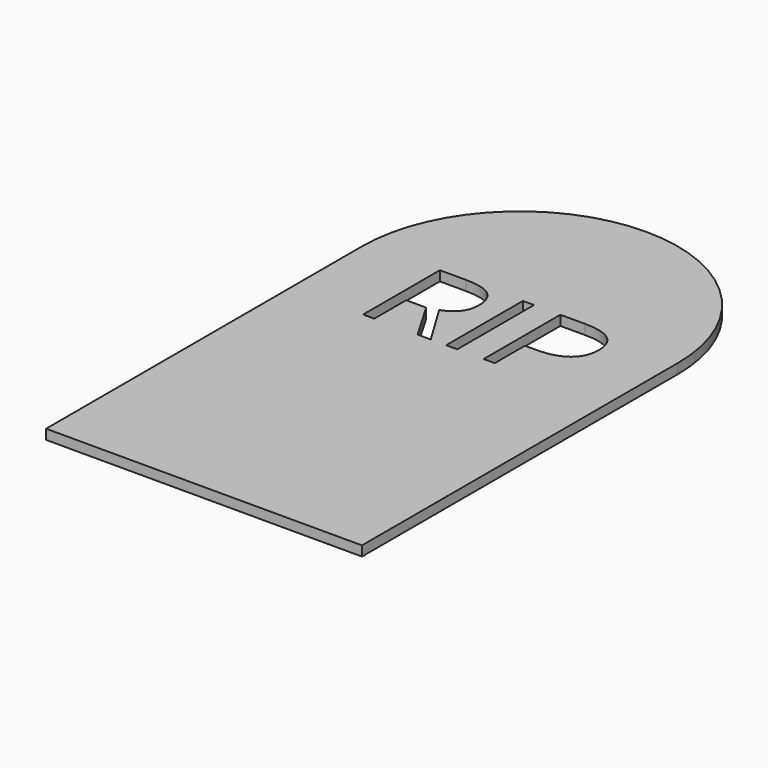
from build123d import *

# Parameters (mm, degrees)
F1_DEPTH = 3.175


with BuildPart() as f1:
    # F0 (on Top) → F1 (new body)
    with BuildSketch(Plane.XY):
        with BuildLine():
            Line((-43.6475083196, 57.6062907483), (-43.6475083196, -69.3937092517))
            Line((-43.6475083196, -69.3937092517), (57.9524916804, -69.3937092517))
            Line((57.9524916804, -69.3937092517), (57.9524916804, 57.6062907483))
            Line((57.9524916804, 57.6062907483), (34.9589943423, 57.6062907483))
            add(Edge.make_bspline(
                [(34.9589943423, 57.6062907483), (38.056212694, 55.3623037103), (38.056212694, 50.7103741337)],
                knots=[0.4823776889, 0.4823776889, 0.4823776889, 1, 1, 1], degree=2))
            add(Edge.make_bspline(
                [(38.056212694, 50.7103741337), (38.056212694, 46.0243819592), (34.8590696182, 43.5024538941)],
                knots=[0, 0, 0, 1, 1, 1], degree=2))
            add(Edge.make_bspline(
                [(34.8590696182, 43.5024538941), (31.6619265424, 40.980525829), (25.7132822978, 40.980525829)],
                knots=[0, 0, 0, 1, 1, 1], degree=2))
            Line((25.7132822978, 40.980525829), (22.08062554, 40.980525829))
            Line((22.08062554, 40.980525829), (22.08062554, 28.846912086))
            Line((22.08062554, 28.846912086), (18.495233833, 28.846912086))
            Line((18.495233833, 28.846912086), (18.495233833, 57.6062907483))
            Line((18.495233833, 57.6062907483), (10.0347897484, 57.6062907483))
            Line((10.0347897484, 57.6062907483), (10.0347897484, 28.846912086))
            Line((10.0347897484, 28.846912086), (6.4493980414, 28.846912086))
            Line((6.4493980414, 28.846912086), (6.4493980414, 57.6062907483))
            Line((6.4493980414, 57.6062907483), (-3.5177150874, 57.6062907483))
            add(Edge.make_bspline(
                [(-3.5177150874, 57.6062907483), (-3.4643650115, 57.5651959541), (-3.4121171904, 57.5232935921)],
                knots=[0.9807273895, 0.9807273895, 0.9807273895, 1, 1, 1], degree=2))
            add(Edge.make_bspline(
                [(-3.4121171904, 57.5232935921), (-0.7011289223, 55.3491012575), (-0.7011289223, 50.980460138)],
                knots=[0, 0, 0, 1, 1, 1], degree=2))
            add(Edge.make_bspline(
                [(-0.7011289223, 50.980460138), (-0.7011289223, 44.8630121407), (-6.906354871, 42.7090762565)],
                knots=[0, 0, 0, 1, 1, 1], degree=2))
            Line((-6.906354871, 42.7090762565), (1.4730634123, 28.846912086))
            Line((1.4730634123, 28.846912086), (-2.7672868552, 28.846912086))
            Line((-2.7672868552, 28.846912086), (-10.2351648739, 41.67599729))
            Line((-10.2351648739, 41.67599729), (-16.6767160764, 41.67599729))
            Line((-16.6767160764, 41.67599729), (-16.6767160764, 28.846912086))
            Line((-16.6767160764, 28.846912086), (-20.2621077834, 28.846912086))
            Line((-20.2621077834, 28.846912086), (-20.2621077834, 57.6062907483))
            Line((-20.2621077834, 57.6062907483), (-43.6475083196, 57.6062907483))
        make_face()
        with BuildLine():
            ThreePointArc((57.9524916804, 57.6062907483), (7.1524916804, 108.4062907483), (-43.6475083196, 57.6062907483))
            Line((-43.6475083196, 57.6062907483), (-20.2621077834, 57.6062907483))
            Line((-20.2621077834, 57.6062907483), (-20.2621077834, 59.6974859266))
            Line((-20.2621077834, 59.6974859266), (-11.8016636989, 59.6974859266))
            add(Edge.make_bspline(
                [(-11.8016636989, 59.6974859266), (-6.2325460998, 59.6974859266), (-3.5177150874, 57.6062907483)],
                knots=[0, 0, 0, 0.9807273895, 0.9807273895, 0.9807273895], degree=2))
            Line((-3.5177150874, 57.6062907483), (6.4493980414, 57.6062907483))
            Line((6.4493980414, 57.6062907483), (6.4493980414, 59.6974859266))
            Line((6.4493980414, 59.6974859266), (10.0347897484, 59.6974859266))
            Line((10.0347897484, 59.6974859266), (10.0347897484, 57.6062907483))
            Line((10.0347897484, 57.6062907483), (18.495233833, 57.6062907483))
            Line((18.495233833, 57.6062907483), (18.495233833, 59.6974859266))
            Line((18.495233833, 59.6974859266), (26.4965317102, 59.6974859266))
            add(Edge.make_bspline(
                [(26.4965317102, 59.6974859266), (32.0726639073, 59.6974859266), (34.9589943423, 57.6062907483)],
                knots=[0, 0, 0, 0.4823776889, 0.4823776889, 0.4823776889], degree=2))
            Line((34.9589943423, 57.6062907483), (57.9524916804, 57.6062907483))
        make_face()
    extrude(amount=F1_DEPTH)


solid = f1.part
